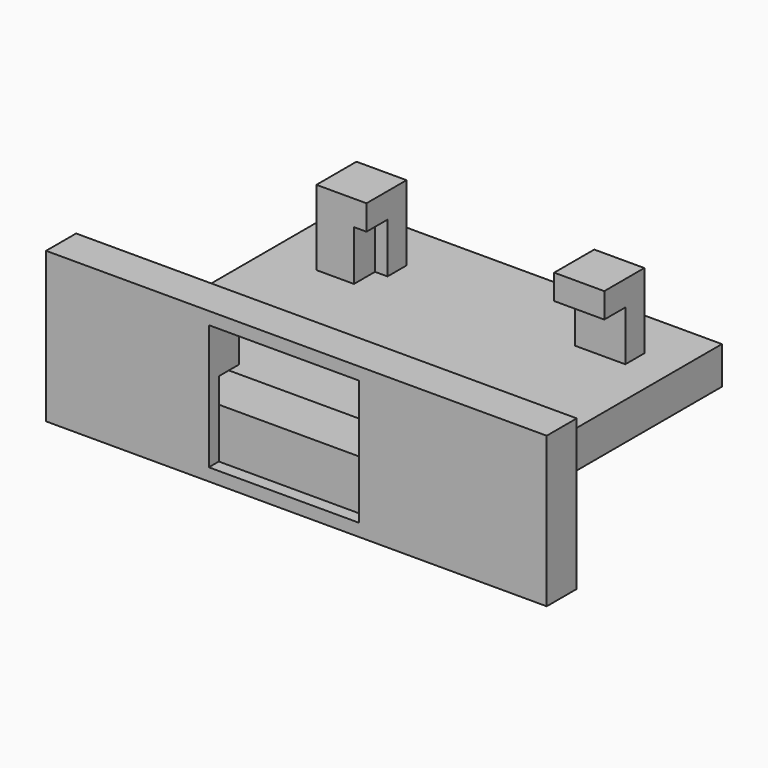
from build123d import *

# Parameters (mm, degrees)
BOX007_W     = 7
BOX007_H     = 4
BOX007_DEPTH = 6
BOX002_W     = 30.1
BOX002_H     = 23.1
BOX002_DEPTH = 4
BOX003_W     = 12
BOX003_H     = 7
BOX003_DEPTH = 10
BOX001_W     = 40
BOX001_H     = 3
BOX001_DEPTH = 12
BOX004_W     = 4
BOX004_H     = 4
BOX004_DEPTH = 6
BOX005_W     = 4
BOX005_H     = 4
BOX005_DEPTH = 6
BOX008_W     = 30
BOX008_H     = 30
BOX008_DEPTH = 3
BOX006_W     = 19
BOX006_H     = 4
BOX006_DEPTH = 5


with BuildPart() as cube007:
    # Box007 → Box007 (new body)
    with BuildSketch(Plane(origin=(25, 1, 3), x_dir=(1, 0, 0), z_dir=(0, 0, 1))):
        with Locations((3.5, 2)):
            Rectangle(BOX007_W, BOX007_H)
    extrude(amount=BOX007_DEPTH)


with BuildPart() as cube002:
    # Box002 → Box002 (new body)
    with BuildSketch(Plane(origin=(7, 1, 3), x_dir=(1, 0, 0), z_dir=(0, 0, 1))):
        with Locations((15.05, 11.55)):
            Rectangle(BOX002_W, BOX002_H)
    extrude(amount=BOX002_DEPTH)


with BuildPart() as cube003:
    # Box003 → Box003 (new body)
    with BuildSketch(Plane(origin=(13, -4, 1), x_dir=(1, 0, 0), z_dir=(0, 0, 1))):
        with Locations((6, 3.5)):
            Rectangle(BOX003_W, BOX003_H)
    extrude(amount=BOX003_DEPTH)


with BuildPart() as cube001:
    # Box001 → Box001 (new body)
    with BuildSketch(Plane.XY):
        with Locations((20, 1.5)):
            Rectangle(BOX001_W, BOX001_H)
    extrude(amount=BOX001_DEPTH)


with BuildPart() as cube004:
    # Box004 → Box004 (new body)
    with BuildSketch(Plane(origin=(23, 22, 3), x_dir=(1, 0, 0), z_dir=(0, 0, 1))):
        with Locations((2, 2)):
            Rectangle(BOX004_W, BOX004_H)
    extrude(amount=BOX004_DEPTH)


with BuildPart() as cube005:
    # Box005 → Box005 (new body)
    with BuildSketch(Plane(origin=(4, 22, 3), x_dir=(1, 0, 0), z_dir=(0, 0, 1))):
        with Locations((2, 2)):
            Rectangle(BOX005_W, BOX005_H)
    extrude(amount=BOX005_DEPTH)


with BuildPart() as cut001:
    # Box008 → Box008 (new body)
    with BuildSketch(Plane.XY):
        with Locations((15, 15)):
            Rectangle(BOX008_W, BOX008_H)
    extrude(amount=BOX008_DEPTH)

    # Fusion001: union Cube001, Cube004, Cube005
    add(cube001.part)
    add(cube004.part)
    add(cube005.part)

    # Cut: cut Cube003
    add(cube003.part, mode=Mode.SUBTRACT)

    # Cut001: cut Cube002
    add(cube002.part, mode=Mode.SUBTRACT)


with BuildPart() as obj1:
    # Box006 → Box006 (new body)
    with BuildSketch(Plane(origin=(7, 1, 0), x_dir=(1, 0, 0), z_dir=(0, 0, 1))):
        with Locations((9.5, 2)):
            Rectangle(BOX006_W, BOX006_H)
    extrude(amount=BOX006_DEPTH)

    # Fusion002: union Cut001
    add(cut001.part)

    # Cut002: cut Cube007
    add(cube007.part, mode=Mode.SUBTRACT)


with BuildPart() as obj1_1:
    # Cut002 placement: moved
    add(obj1.part.moved(Location((113, -95, 26.4))))


solid = obj1_1.part
